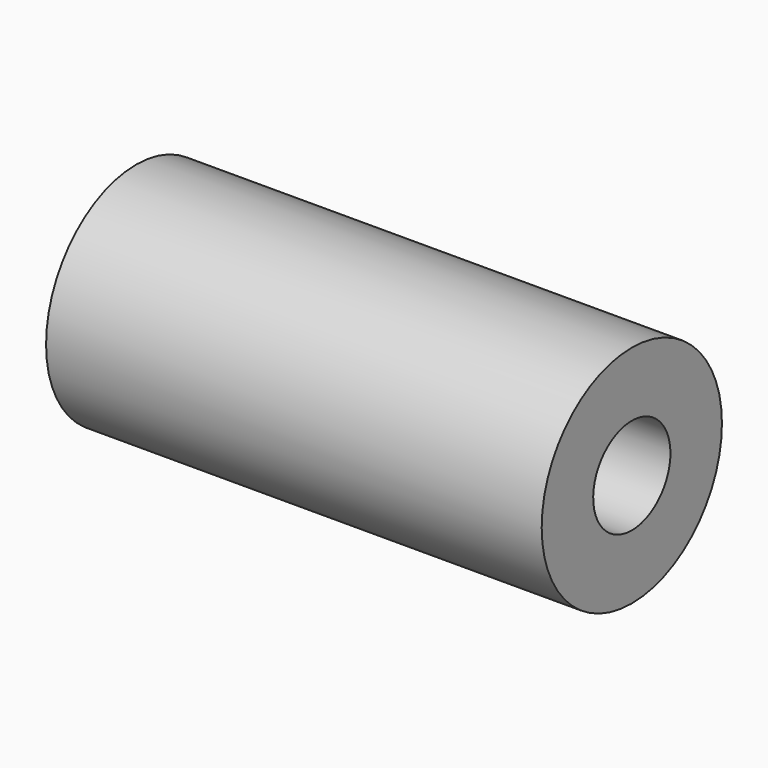
from build123d import *

# Parameters (mm, degrees)
CYLINDER177_R     = 1.5
CYLINDER177_DEPTH = 55
CYLINDER173_R     = 3.5
CYLINDER173_DEPTH = 15.4


with BuildPart() as cylinder177:
    # Cylinder177 → Cylinder177 (new body)
    with BuildSketch(Plane(origin=(92.1, 59.9, 60.7), x_dir=(0, 0, -1), z_dir=(1, 0, 0))):
        Circle(CYLINDER177_R)
    extrude(amount=CYLINDER177_DEPTH)


with BuildPart() as cut211:
    # Cylinder173 → Cylinder173 (new body)
    with BuildSketch(Plane(origin=(119.5, 59.9, 60.7), x_dir=(0, 0, -1), z_dir=(1, 0, 0))):
        Circle(CYLINDER173_R)
    extrude(amount=CYLINDER173_DEPTH)

    # Cut211: cut Cylinder177
    add(cylinder177.part, mode=Mode.SUBTRACT)


solid = cut211.part
